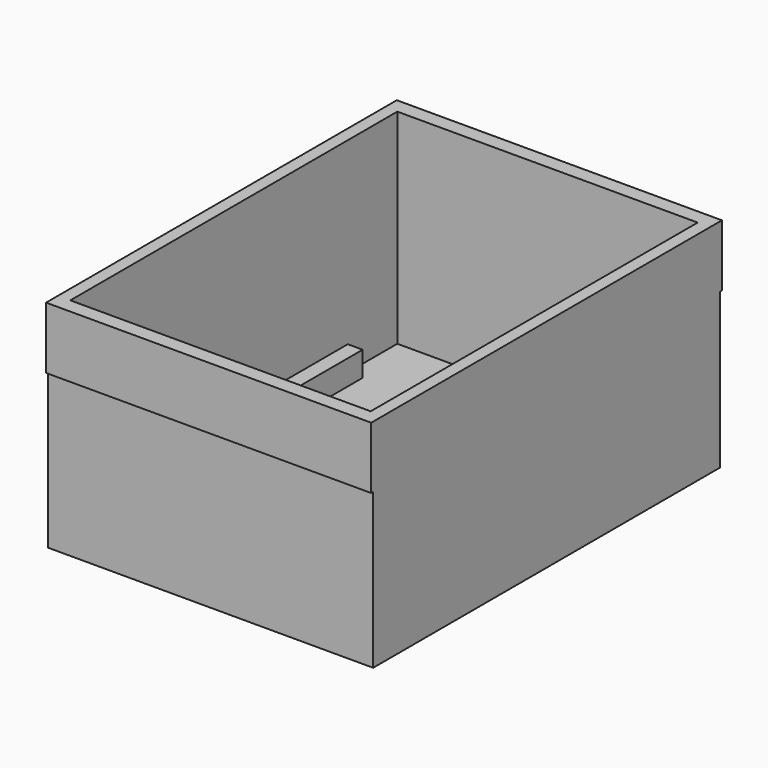
from build123d import *

# Parameters (mm, degrees)
F0_W     = 66.675
F0_H     = 88.9
F1_DEPTH = 44.45
F2_T     = -2.54
F4_DEPTH = 5.08
F3_W     = 55.499
F3_H     = 3.175
F5_DEPTH = 3.048
F6_W     = 66.675
F6_H     = 12.7
F7_DEPTH = 0.5
F8_W     = 66.675
F8_H     = 12.6965791702
F9_DEPTH = 0.5


with BuildPart() as f1:
    # F0 (on Top) → F1 (new body)
    with BuildSketch(Plane.XY):
        with Locations((-1.1231470853, 10.8568438743)):
            Rectangle(F0_W, F0_H)
    extrude(amount=F1_DEPTH)

    # F2
    f2_openings = [f1.faces().sort_by_distance(p)[0] for p in [
        (-1.123147, 10.856844, 44.45),
    ]]
    offset(amount=F2_T, openings=f2_openings)

    # F3 (on face) → F4 (join)
    with BuildSketch(Plane.XY.offset(2.54)):
        Polygon((29.6743529147, 40.0668438743), (26.6263529147, 40.0668438743), (26.6263529147, -1.4621561257), (26.6263529147, -4.6371561257), (26.6263529147, -10.7331561257), (29.6743529147, -10.7331561257), align=None)
        Polygon((-28.8726470853, 40.0668438743), (-31.9206470853, 40.0668438743), (-31.9206470853, -10.7331561257), (-28.8726470853, -10.7331561257), (-28.8726470853, -4.6371561257), (-28.8726470853, -1.4621561257), align=None)
    extrude(amount=F4_DEPTH)

    # F3 (on face) → F5 (join)
    with BuildSketch(Plane.XY.offset(2.54)):
        with Locations((-1.1231470853, -3.0496561257)):
            Rectangle(F3_W, F3_H)
    extrude(amount=F5_DEPTH)

    # F6 (on face) → F7 (join)
    with BuildSketch(Plane(origin=(0, 55.3068438743, 0), x_dir=(-1, 0, 0), z_dir=(0, 1, 0))):
        with Locations((1.1231470853, 38.1)):
            Rectangle(F6_W, F6_H)
    extrude(amount=F7_DEPTH)

    # F8 (on face) → F9 (join)
    with BuildSketch(Plane.XZ.offset(33.5931561257)):
        with Locations((-1.1231470853, 38.1017104149)):
            Rectangle(F8_W, F8_H)
    extrude(amount=F9_DEPTH)


solid = f1.part
